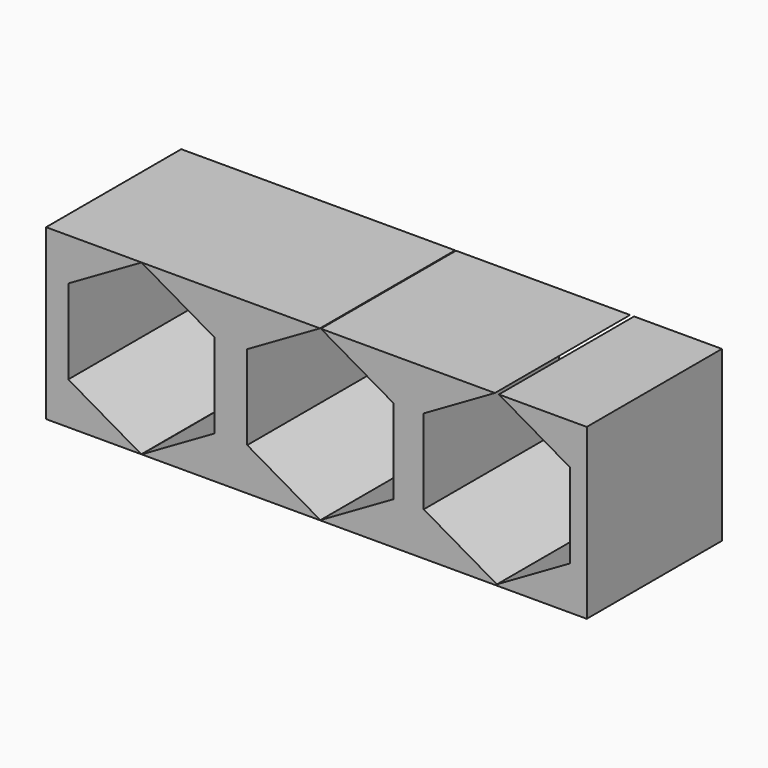
from build123d import *

# Parameters (mm, degrees)
F1_DEPTH = 5


with BuildPart() as f1:
    # F0 (on Front) → F1 (new body)
    with BuildSketch(Plane.XZ):
        Polygon((0, 5), (0, 0), (2.817796, 0), (0.656805, 1.247649), (0.656805, 3.747649), (2.821869, 4.997649), (4.986932, 3.747649), (4.986932, 1.247649), (2.825941, 0), (16, 0), (16, 5), (13.399874, 5), (15.50617, 3.78393), (15.50617, 1.28393), (13.341106, 0.03393), (11.176043, 1.28393), (11.176043, 3.78393), (13.282339, 5), (8.131277, 5), (10.282767, 3.757837), (10.282767, 1.257837), (8.117704, 0.007837), (5.95264, 1.257837), (5.95264, 3.757837), (8.10413, 5), align=None)
    extrude(amount=F1_DEPTH)


solid = f1.part
